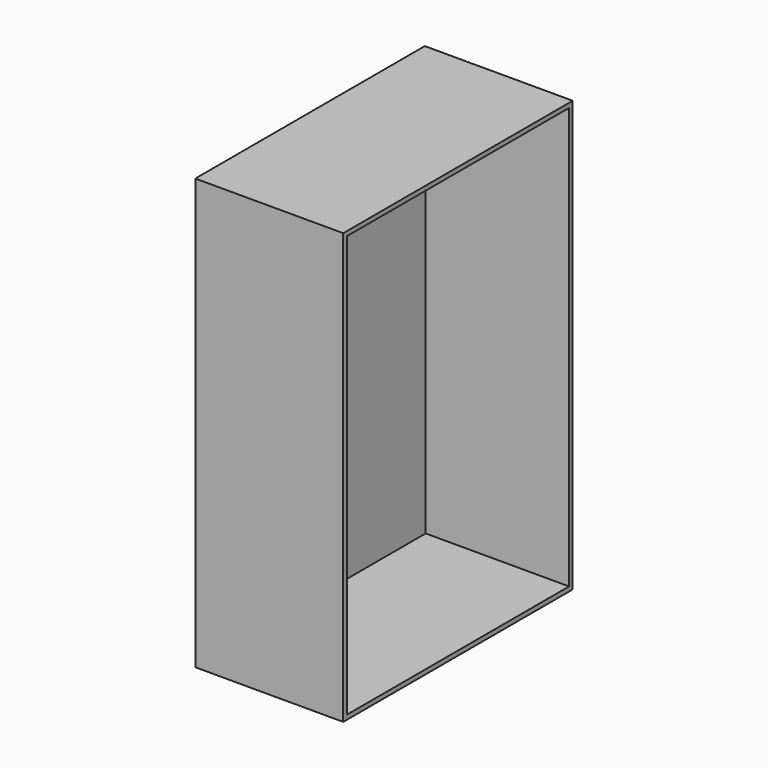
from build123d import *

# Parameters (mm, degrees)
F0_W     = 98.3996
F0_H     = 149.2123
F1_DEPTH = 1.6002
F2_DEPTH = 50.8
F3_R     = 12.7
F4_DEPTH = 1.6002


with BuildPart() as f1:
    # F0 (on Right) → F1 (new body)
    with BuildSketch(Plane.YZ):
        Polygon((50.8, 76.2), (0, 76.2), (-50.8, 76.2), (-50.8, 0), (-50.8, -76.2), (0, -76.2), (50.8, -76.2), (50.8, 0), align=None)
        with Locations((0, 0.00635)):
            Rectangle(F0_W, F0_H, mode=Mode.SUBTRACT)
        with Locations((0, 0.00635)):
            Rectangle(F0_W, F0_H)
    extrude(amount=-F1_DEPTH)

    # F0 (on Right) → F2 (join)
    with BuildSketch(Plane.YZ):
        Polygon((50.8, 76.2), (0, 76.2), (-50.8, 76.2), (-50.8, 0), (-50.8, -76.2), (0, -76.2), (50.8, -76.2), (50.8, 0), align=None)
        with Locations((0, 0.00635)):
            Rectangle(F0_W, F0_H, mode=Mode.SUBTRACT)
    extrude(amount=F2_DEPTH)

    # F3 (on face) → F4 (cut)
    with BuildSketch(Plane.YZ):
        with Locations((0, 38.1)):
            Circle(F3_R)
        with Locations((0, -50.8)):
            Circle(F3_R)
    extrude(amount=-F4_DEPTH, mode=Mode.SUBTRACT)


solid = f1.part
